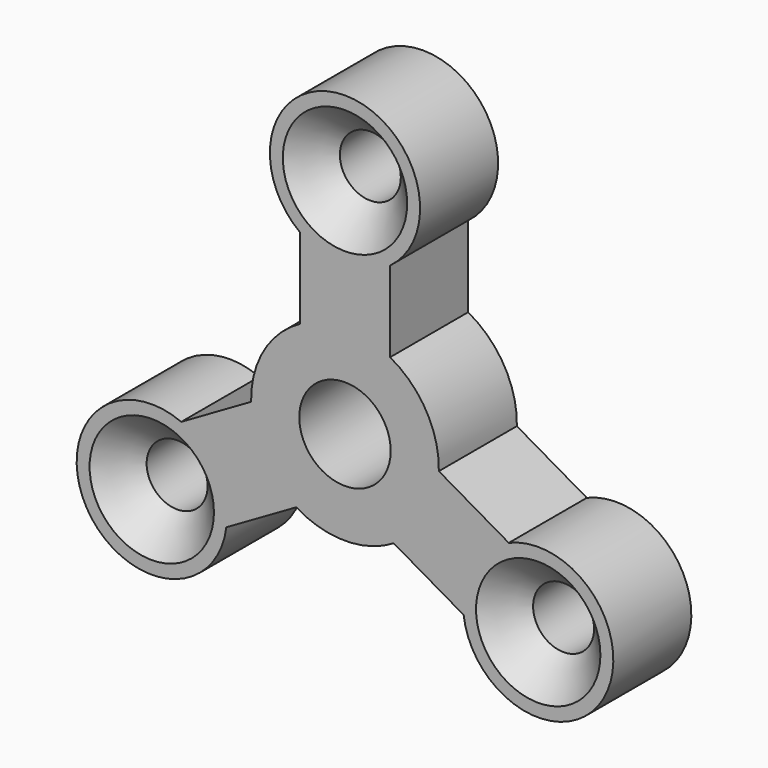
from build123d import *

# Parameters (mm, degrees)
F0_R     = 3.175
F0_R_2   = 4.7625
F1_DEPTH = 10.16
F2_SIZE  = 3.302


with BuildPart() as f1:
    # F0 (on Front) → F1 (new body)
    with BuildSketch(Plane.XZ):
        with BuildLine():
            Line((4.699, 8.576027), (4.699, 16.986253))
            ThreePointArc((4.699, 16.986253), (0, 31.0642), (-4.699, 16.986253))
            Line((-4.699, 16.986253), (-4.699, 8.576027))
            ThreePointArc((-4.699, 8.576027), (-8.468862, 4.8895), (-9.776557, -0.21856))
            Line((-9.776557, -0.21856), (-17.060027, -4.423673))
            ThreePointArc((-17.060027, -4.423673), (-26.902386, -15.5321), (-12.361027, -12.56258))
            Line((-12.361027, -12.56258), (-5.077557, -8.357467))
            ThreePointArc((-5.077557, -8.357467), (0, -9.779), (5.077557, -8.357467))
            Line((5.077557, -8.357467), (12.361027, -12.56258))
            ThreePointArc((12.361027, -12.56258), (26.902386, -15.5321), (17.060027, -4.423673))
            Line((17.060027, -4.423673), (9.776557, -0.21856))
            ThreePointArc((9.776557, -0.21856), (8.468862, 4.8895), (4.699, 8.576027))
        make_face()
        with Locations((-20.127296, -11.6205)):
            Circle(F0_R, mode=Mode.SUBTRACT)
        Circle(F0_R_2, mode=Mode.SUBTRACT)
        with Locations((20.127296, -11.6205)):
            Circle(F0_R, mode=Mode.SUBTRACT)
        with Locations((0, 23.241)):
            Circle(F0_R, mode=Mode.SUBTRACT)
    extrude(amount=-F1_DEPTH)

    # F2
    f2_edges = [f1.edges().sort_by_distance(p)[0] for p in [
        (-3.175, 0, 23.241),
        (-23.302296, 0, -11.6205),
        (16.952296, 0, -11.6205),
    ]]
    chamfer(f2_edges, length=F2_SIZE)


solid = f1.part
